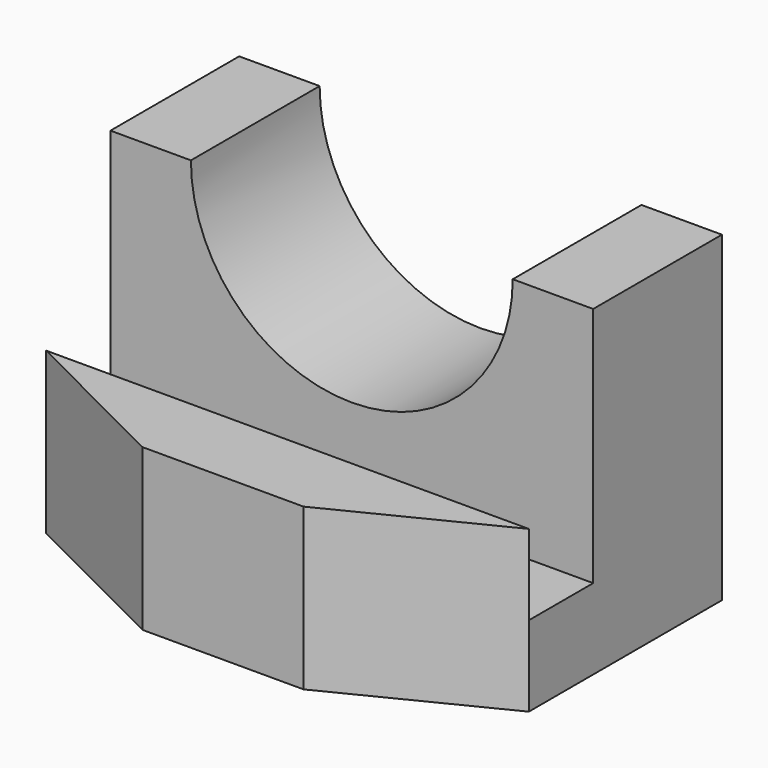
from build123d import *

# Parameters (mm, degrees)
F1_DEPTH = 20
F2_W     = 60
F2_H     = 10
F3_DEPTH = 10
F5_DEPTH = 10


with BuildPart() as f1:
    # F0 (on Front) → F1 (new body)
    with BuildSketch(Plane.XZ):
        with BuildLine():
            Line((-30, 10), (-30, -10))
            Line((-30, -10), (30, -10))
            Line((30, -10), (30, 10))
            Line((30, 10), (30, 30))
            Line((30, 30), (20, 30))
            ThreePointArc((20, 30), (0, 10), (-20, 30))
            Line((-20, 30), (-30, 30))
            Line((-30, 30), (-30, 10))
        make_face()
    extrude(amount=F1_DEPTH)

    # F2 (on face) → F3 (join)
    with BuildSketch(Plane.XZ.offset(20)):
        with Locations((0, -5)):
            Rectangle(F2_W, F2_H)
    extrude(amount=F3_DEPTH)

    # F4 (on face) → F5 (join, symmetric)
    with BuildSketch(Plane.XY):
        Polygon((30, -30), (-30, -30), (-10, -40), (10, -40), align=None)
    extrude(amount=F5_DEPTH, both=True)


solid = f1.part
